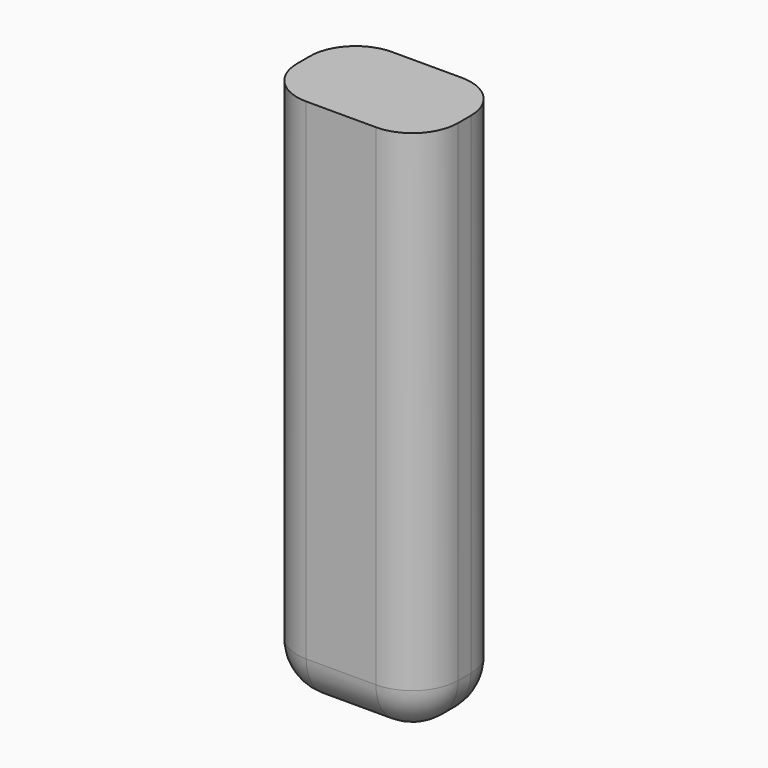
from build123d import *

# Parameters (mm, degrees)
F0_W     = 76.2
F0_H     = 50.8
F1_DEPTH = 127
F2_R     = 21.59


with BuildPart() as f1:
    # F0 (on Top) → F1 (new body, symmetric)
    with BuildSketch(Plane.XY):
        with Locations((8.828047, -16.645165)):
            Rectangle(F0_W, F0_H)
    extrude(amount=F1_DEPTH, both=True)

    # F2
    f2_edges = [f1.edges().sort_by_distance(p)[0] for p in [
        (8.828047, -42.045165, -127),
        (8.828047, 8.754835, -127),
        (46.928047, -16.645165, -127),
        (-29.271953, -16.645165, -127),
        (-29.271953, 8.754835, 0),
        (-29.271953, -42.045165, 0),
        (46.928047, -42.045165, 0),
        (46.928047, 8.754835, 0),
    ]]
    fillet(f2_edges, radius=F2_R)


solid = f1.part
